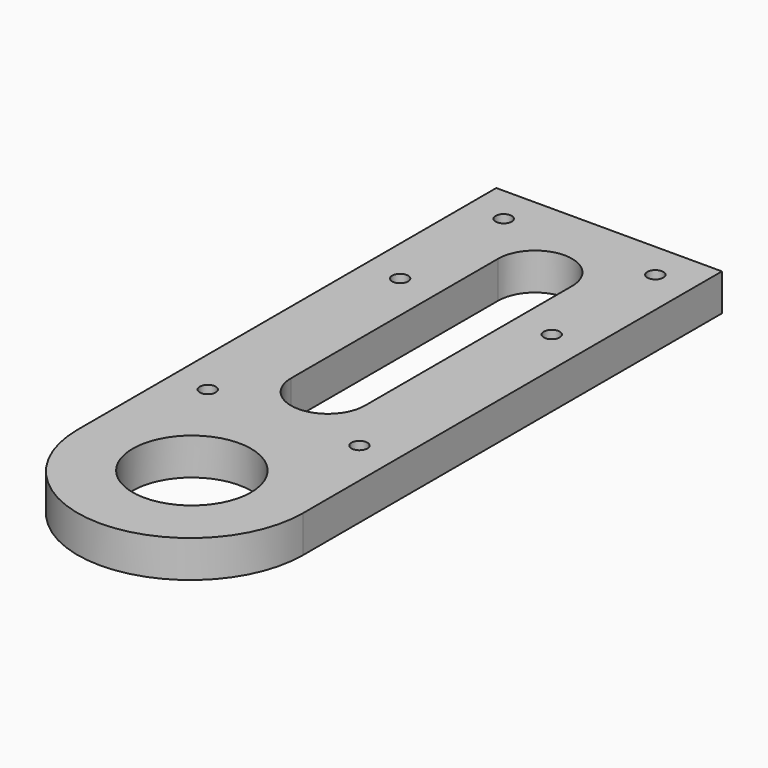
from build123d import *

# Parameters (mm, degrees)
SKETCH_R   = 2.15
SKETCH_R_2 = 16
PAD_DEPTH  = 10


with BuildPart() as part:
    # Sketch → Pad (new body)
    with BuildSketch(Plane.XY):
        with BuildLine():
            Line((-30.5, 141), (-30.5, -0.5))
            ThreePointArc((-30.5, -0.5), (0, -31), (30.5, -0.5))
            Line((30.5, -0.5), (30.5, 141))
            Line((30.5, 141), (-30.5, 141))
        make_face()
        with Locations((-20.5, 131)):
            Circle(SKETCH_R, mode=Mode.SUBTRACT)
        with Locations((20.5, 131)):
            Circle(SKETCH_R, mode=Mode.SUBTRACT)
        with Locations((-20.5, 96)):
            Circle(SKETCH_R, mode=Mode.SUBTRACT)
        with Locations((20.5, 96)):
            Circle(SKETCH_R, mode=Mode.SUBTRACT)
        Circle(SKETCH_R_2, mode=Mode.SUBTRACT)
        with Locations((-20.5, 31)):
            Circle(SKETCH_R, mode=Mode.SUBTRACT)
        with Locations((20.5, 31)):
            Circle(SKETCH_R, mode=Mode.SUBTRACT)
        with BuildLine():
            ThreePointArc((10, 116), (0, 126), (-10, 116))
            Line((-10, 116), (-10, 46))
            ThreePointArc((-10, 46), (0, 36), (10, 46))
            Line((10, 116), (10, 46))
        make_face(mode=Mode.SUBTRACT)
    extrude(amount=PAD_DEPTH)


solid = part.part
